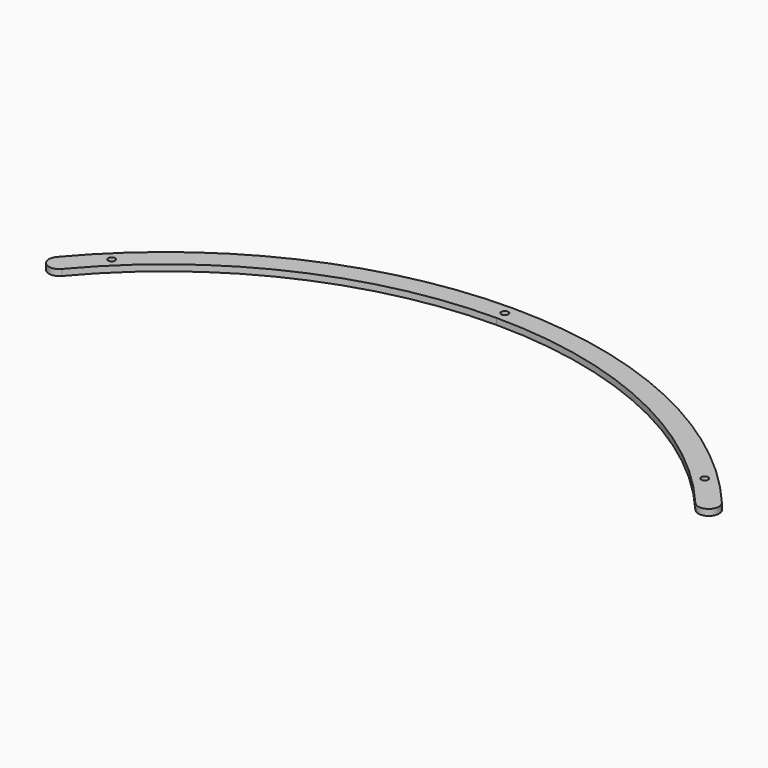
from build123d import *

# Parameters (mm, degrees)
PAD014_DEPTH         = 3
SKETCH055_R          = 1.7
POCKET019_DEPTH      = 363.445695
POCKET019_DEPTH_BACK = 366.445695


with BuildPart() as part:
    # Sketch052 → Pad014 (new body)
    with BuildSketch(Plane.XY):
        with BuildLine():
            ThreePointArc((152.862483, 128.734095), (84.297377, 181.199774), (0, 199.848457))
            Line((0, 199.848457), (0, 209.848457))
            ThreePointArc((160.511403, 135.17568), (88.515442, 190.266633), (0, 209.848457))
            ThreePointArc((152.862483, 128.734095), (159.907736, 128.130427), (160.511403, 135.17568))
        make_face()
    pad014 = extrude(amount=PAD014_DEPTH)

    # Sketch055 → Pocket019 (cut, two sides)
    with BuildSketch(Plane.XY) as pocket019_sk:
        with Locations((143.11, 146.568818)):
            Circle(SKETCH055_R)
        with BuildLine():
            Line((0, 203.148457), (0, 206.548457))
            ThreePointArc((0, 203.148457), (1.7, 204.848457), (0, 206.548457))
        make_face()
    pocket019 = extrude(amount=-POCKET019_DEPTH, mode=Mode.SUBTRACT) + extrude(pocket019_sk.sketch, amount=POCKET019_DEPTH_BACK, mode=Mode.SUBTRACT)

    # Mirrored019: Pad014, Pocket019 across Sketch052 V_Axis
    add(pad014.mirror(Plane(origin=(0, 0, 0), x_dir=(0, 0, 1), z_dir=(1, 0, 0))))
    add(pocket019.mirror(Plane(origin=(0, 0, 0), x_dir=(0, 0, 1), z_dir=(1, 0, 0))), mode=Mode.SUBTRACT)


solid = part.part
